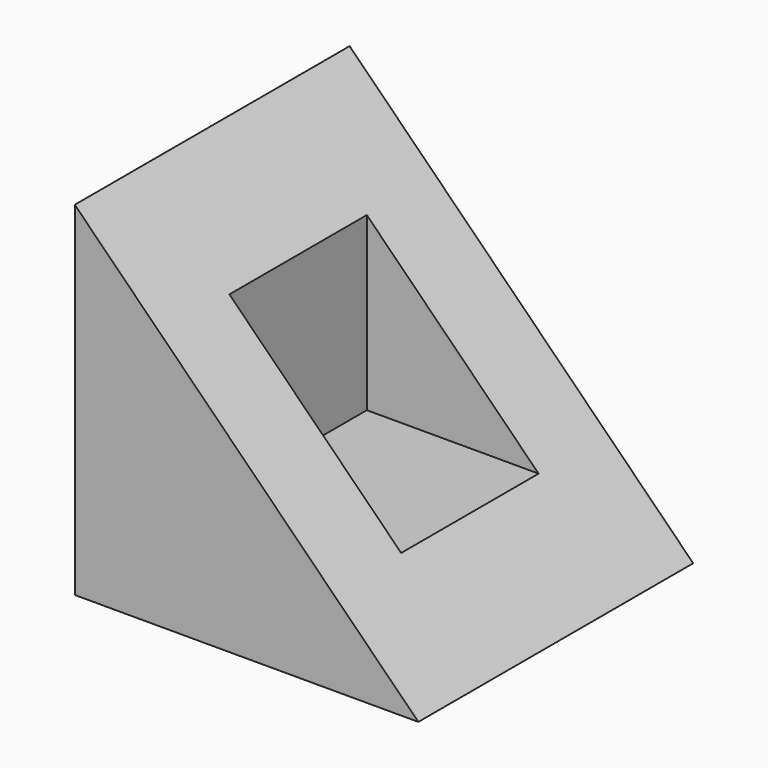
from build123d import *

# Parameters (mm, degrees)
F1_DEPTH = 40
F3_W     = 20
F3_H     = 30
F4_DEPTH = 25


with BuildPart() as f1:
    # F0 (on Front) → F1 (new body)
    with BuildSketch(Plane.XZ):
        Polygon((0, 40), (0, 0), (40, 0), align=None)
    extrude(amount=F1_DEPTH)

    # F3 (on offset) → F4 (cut)
    with BuildSketch(Plane.YZ.offset(10)):
        with Locations((-20, 25)):
            Rectangle(F3_W, F3_H)
    extrude(amount=F4_DEPTH, mode=Mode.SUBTRACT)


solid = f1.part
